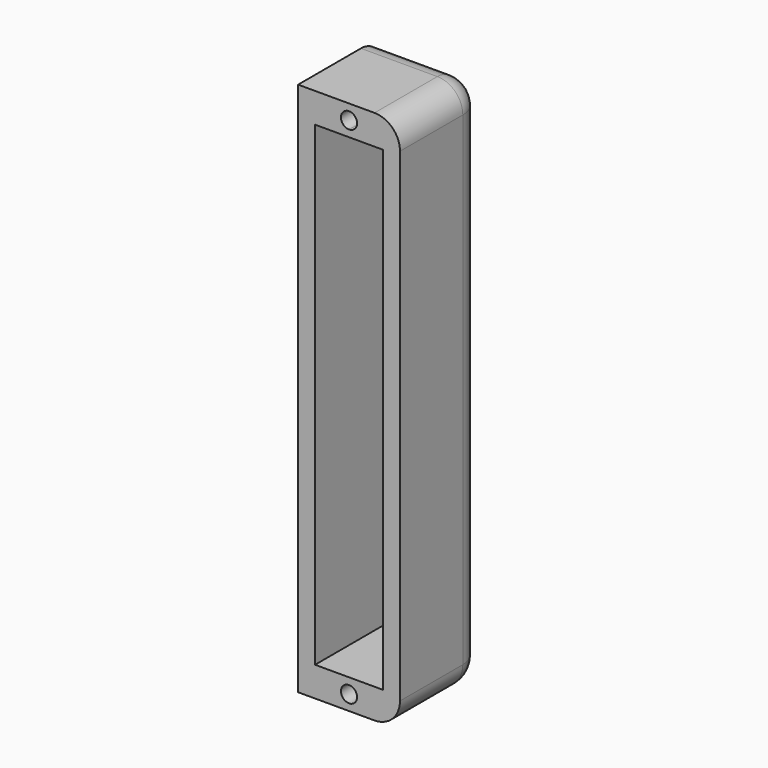
from build123d import *

# Parameters (mm, degrees)
F0_W     = 24
F0_H     = 126
F0_W_2   = 16
F0_H_2   = 112
F1_DEPTH = 24.5
F2_DEPTH = 2
F3_R     = 1.9
F4_DEPTH = 7
F5_R     = 6


with BuildPart() as f1:
    # F0 (on Front) → F1 (new body)
    with BuildSketch(Plane.XZ):
        Rectangle(F0_W, F0_H)
        Rectangle(F0_W_2, F0_H_2, mode=Mode.SUBTRACT)
    extrude(amount=F1_DEPTH)

    # F0 (on Front) → F2 (join)
    with BuildSketch(Plane.XZ):
        Rectangle(F0_W_2, F0_H_2)
    extrude(amount=F2_DEPTH)

    # F3 (on face) → F4 (cut)
    with BuildSketch(Plane.XZ.offset(24.5)):
        with BuildLine():
            ThreePointArc((0, 57.6), (1.343503, 58.156497), (1.9, 59.5))
            ThreePointArc((1.9, 59.5), (1.343503, 60.843503), (0, 61.4))
            Line((0, 61.4), (0, 57.6))
        make_face()
        with BuildLine():
            Line((0, 57.6), (0, 61.4))
            ThreePointArc((0, 61.4), (-1.9, 59.5), (0, 57.6))
        make_face()
        with Locations((0, -59.5)):
            Circle(F3_R)
    extrude(amount=-F4_DEPTH, mode=Mode.SUBTRACT)

    # F5
    f5_edges = [f1.edges().sort_by_distance(p)[0] for p in [
        (0, 0, 63),
        (12, 0, 0),
        (0, 0, -63),
        (12, -12.25, -63),
        (12, -12.25, 63),
    ]]
    fillet(f5_edges, radius=F5_R)


solid = f1.part
